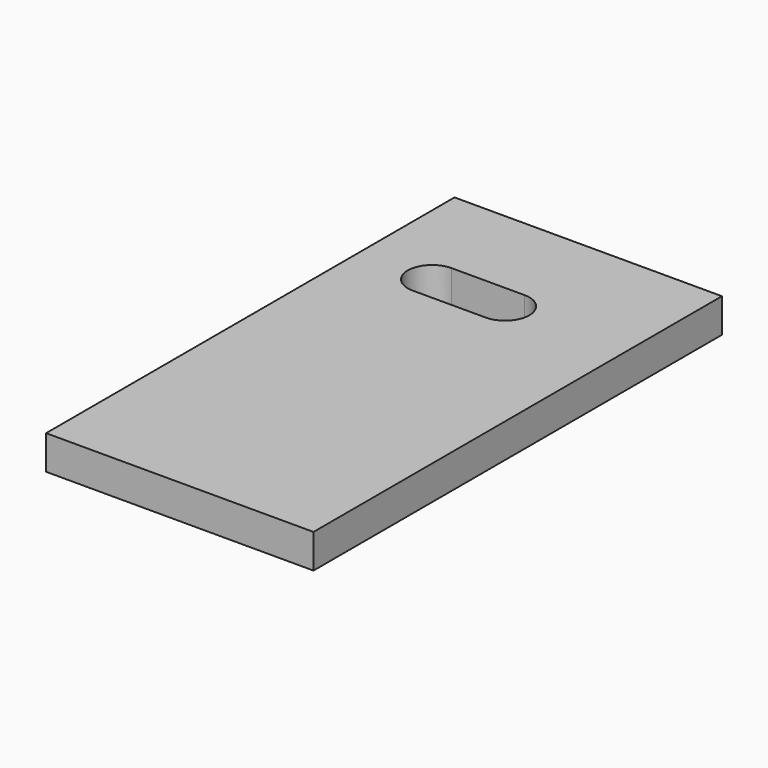
from build123d import *

# Parameters (mm, degrees)
EXTRUDE004_DEPTH = 7
BOX085_W         = 7
BOX085_H         = 105
BOX085_DEPTH     = 55


with BuildPart() as wirecut001:
    # Sketch015 (on Face1 of Box085) → Extrude004 (new body)
    with BuildSketch(Plane(origin=(340, 25, 107), x_dir=(0, -1, 0), z_dir=(0, 0, 1))):
        with BuildLine():
            ThreePointArc((-75.5, 30), (-80.5, 35), (-85.5, 30))
            Line((-85.5, 30), (-85.5, 15))
            ThreePointArc((-85.5, 15), (-80.5, 10), (-75.5, 15))
            Line((-75.5, 30), (-75.5, 15))
        make_face()
    extrude(amount=-EXTRUDE004_DEPTH)


with BuildPart() as cut007:
    # Box085 → Box085 (new body)
    with BuildSketch(Plane(origin=(340, 25, 107), x_dir=(0, 0, -1), z_dir=(1, 0, 0))):
        with Locations((3.5, 52.5)):
            Rectangle(BOX085_W, BOX085_H)
    extrude(amount=BOX085_DEPTH)

    # Cut007: cut Wirecut001
    add(wirecut001.part, mode=Mode.SUBTRACT)


solid = cut007.part
